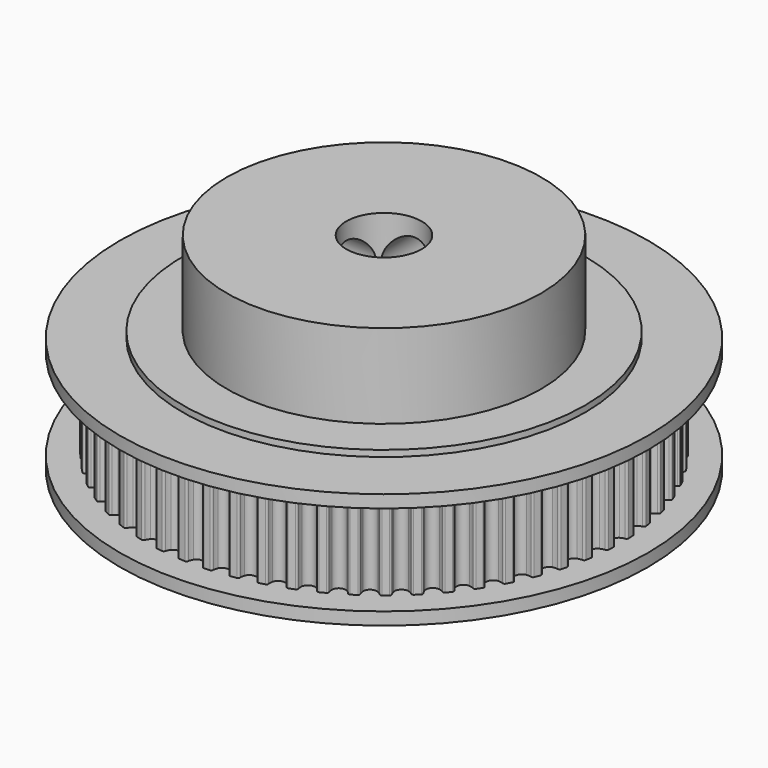
from build123d import *

# Parameters (mm, degrees)
PAD_DEPTH         = 7.2
SKETCHBASE_R      = 21
PADBASE_DEPTH     = 1
SKETCHTOP_R       = 21
PADTOP_DEPTH      = 1
SKETCH_R          = 16
PAD001_DEPTH      = 0.5
SKETCH001_R       = 12.5
PAD002_DEPTH      = 7.2
SKETCH002_R       = 16
PAD003_DEPTH      = 0.5
SKETCH003_R       = 3
POCKET_DEPTH      = 1.501
POCKET_DEPTH_BACK = 15.401
SKETCH004_R       = 2
POCKET001_DEPTH   = 21.001
SKETCH005_R       = 2
POCKET002_DEPTH   = 21.001


with BuildPart() as part:
    # SketchGear → Pad (new body)
    with BuildSketch(Plane.XY):
        with BuildLine():
            ThreePointArc((18.844593, -0.75), (18.800659, -0.643934), (18.694593, -0.6))
            ThreePointArc((18.694593, -0.6), (18.515304, -0.544218), (18.344593, -0.466025))
            ThreePointArc((18.344593, -0.466025), (18.094593, 0), (18.344593, 0.466025))
            ThreePointArc((18.344593, 0.466025), (18.515304, 0.544218), (18.694593, 0.6))
            ThreePointArc((18.694593, 0.6), (18.800659, 0.643934), (18.844593, 0.75))
            Line((18.844593, 0.75), (18.819757, 1.223905))
            ThreePointArc((18.819757, 1.223905), (18.764977, 1.324798), (18.654899, 1.357404))
            ThreePointArc((18.654899, 1.357404), (18.470762, 1.39414), (18.292812, 1.45406))
            ThreePointArc((18.292812, 1.45406), (17.995469, 1.8914), (18.195387, 2.381005))
            ThreePointArc((18.195387, 2.381005), (18.356989, 2.476613), (18.529465, 2.55083))
            ThreePointArc((18.529465, 2.55083), (18.630358, 2.60561), (18.662964, 2.715688))
            Line((18.662964, 2.715688), (18.588727, 3.184401))
            ThreePointArc((18.588727, 3.184401), (18.523701, 3.279014), (18.410818, 3.299936))
            ThreePointArc((18.410818, 3.299936), (18.22385, 3.317223), (18.040612, 3.358214))
            ThreePointArc((18.040612, 3.358214), (17.699183, 3.762077), (17.846828, 4.269897))
            ThreePointArc((17.846828, 4.269897), (17.997551, 4.381873), (18.161324, 4.473713))
            ThreePointArc((18.161324, 4.473713), (18.255938, 4.538739), (18.27686, 4.651622))
            Line((18.27686, 4.651622), (18.154036, 5.110007))
            ThreePointArc((18.154036, 5.110007), (18.079476, 5.197306), (17.965025, 5.206313))
            ThreePointArc((17.965025, 5.206313), (17.777273, 5.203962), (17.590755, 5.225575))
            ThreePointArc((17.590755, 5.225575), (17.208981, 5.591537), (17.302735, 6.112008))
            ThreePointArc((17.302735, 6.112008), (17.440928, 6.239125), (17.594204, 6.347581))
            ThreePointArc((17.594204, 6.347581), (17.681503, 6.422141), (17.69051, 6.536592))
            Line((17.69051, 6.536592), (17.520445, 6.979627))
            ThreePointArc((17.520445, 6.979627), (17.437168, 7.058654), (17.322403, 7.055649))
            ThreePointArc((17.322403, 7.055649), (17.135925, 7.033685), (16.948169, 7.035683))
            ThreePointArc((16.948169, 7.035683), (16.530233, 7.359734), (16.56907, 7.887154))
            ThreePointArc((16.56907, 7.887154), (16.693219, 8.02802), (16.834319, 8.151903))
            ThreePointArc((16.834319, 8.151903), (16.913345, 8.23518), (16.91034, 8.349946))
            Line((16.91034, 8.349946), (16.694896, 8.772778))
            ThreePointArc((16.694896, 8.772778), (16.603815, 8.842666), (16.489993, 8.827681))
            ThreePointArc((16.489993, 8.827681), (16.306833, 8.786346), (16.119896, 8.768707))
            ThreePointArc((16.119896, 8.768707), (15.670377, 9.047297), (15.653871, 9.575886))
            ThreePointArc((15.653871, 9.575886), (15.762615, 9.728958), (15.889993, 9.866912))
            ThreePointArc((15.889993, 9.866912), (15.959881, 9.957993), (15.944896, 10.071816))
            Line((15.944896, 10.071816), (15.686435, 10.469811))
            ThreePointArc((15.686435, 10.469811), (15.588548, 10.529797), (15.476915, 10.502996))
            ThreePointArc((15.476915, 10.502996), (15.299079, 10.442741), (15.11501, 10.405659))
            ThreePointArc((15.11501, 10.405659), (14.638833, 10.635735), (14.567165, 11.159704))
            ThreePointArc((14.567165, 11.159704), (14.659313, 11.323304), (14.771572, 11.473816))
            ThreePointArc((14.771572, 11.473816), (14.831558, 11.571704), (14.804757, 11.683337))
            Line((14.804757, 11.683337), (14.50611, 12.052135))
            ThreePointArc((14.50611, 12.052135), (14.402489, 12.10156), (14.294269, 12.063238))
            ThreePointArc((14.294269, 12.063238), (14.123705, 11.984724), (13.944521, 11.928604))
            ThreePointArc((13.944521, 11.928604), (13.446903, 12.107646), (13.320858, 12.621253))
            ThreePointArc((13.320858, 12.621253), (13.3954, 12.793589), (13.491312, 12.955011))
            ThreePointArc((13.491312, 12.955011), (13.540737, 13.058633), (13.502414, 13.166853))
            Line((13.502414, 13.166853), (13.166853, 13.502414))
            ThreePointArc((13.166853, 13.502414), (13.058633, 13.540737), (12.955011, 13.491312))
            ThreePointArc((12.955011, 13.491312), (12.793589, 13.3954), (12.621253, 13.320858))
            ThreePointArc((12.621253, 13.320858), (12.107646, 13.446903), (11.928604, 13.944521))
            ThreePointArc((11.928604, 13.944521), (11.984724, 14.123705), (12.063238, 14.294269))
            ThreePointArc((12.063238, 14.294269), (12.10156, 14.402489), (12.052135, 14.50611))
            Line((12.052135, 14.50611), (11.683337, 14.804757))
            ThreePointArc((11.683337, 14.804757), (11.571704, 14.831558), (11.473816, 14.771572))
            ThreePointArc((11.473816, 14.771572), (11.323304, 14.659313), (11.159704, 14.567165))
            ThreePointArc((11.159704, 14.567165), (10.635735, 14.638833), (10.405659, 15.11501))
            ThreePointArc((10.405659, 15.11501), (10.442741, 15.299079), (10.502996, 15.476915))
            ThreePointArc((10.502996, 15.476915), (10.529797, 15.588548), (10.469811, 15.686435))
            Line((10.469811, 15.686435), (10.071816, 15.944896))
            ThreePointArc((10.071816, 15.944896), (9.957993, 15.959881), (9.866912, 15.889993))
            ThreePointArc((9.866912, 15.889993), (9.728958, 15.762615), (9.575886, 15.653871))
            ThreePointArc((9.575886, 15.653871), (9.047297, 15.670377), (8.768707, 16.119896))
            ThreePointArc((8.768707, 16.119896), (8.786346, 16.306833), (8.827681, 16.489993))
            ThreePointArc((8.827681, 16.489993), (8.842666, 16.603815), (8.772778, 16.694896))
            Line((8.772778, 16.694896), (8.349946, 16.91034))
            ThreePointArc((8.349946, 16.91034), (8.23518, 16.913345), (8.151903, 16.834319))
            ThreePointArc((8.151903, 16.834319), (8.02802, 16.693219), (7.887154, 16.56907))
            ThreePointArc((7.887154, 16.56907), (7.359734, 16.530233), (7.035683, 16.948169))
            ThreePointArc((7.035683, 16.948169), (7.033685, 17.135925), (7.055649, 17.322403))
            ThreePointArc((7.055649, 17.322403), (7.058654, 17.437168), (6.979627, 17.520445))
            Line((6.979627, 17.520445), (6.536592, 17.69051))
            ThreePointArc((6.536592, 17.69051), (6.422141, 17.681503), (6.347581, 17.594204))
            ThreePointArc((6.347581, 17.594204), (6.239125, 17.440928), (6.112008, 17.302735))
            ThreePointArc((6.112008, 17.302735), (5.591537, 17.208981), (5.225575, 17.590755))
            ThreePointArc((5.225575, 17.590755), (5.203962, 17.777273), (5.206313, 17.965025))
            ThreePointArc((5.206313, 17.965025), (5.197306, 18.079476), (5.110007, 18.154036))
            Line((5.110007, 18.154036), (4.651622, 18.27686))
            ThreePointArc((4.651622, 18.27686), (4.538739, 18.255938), (4.473713, 18.161324))
            ThreePointArc((4.473713, 18.161324), (4.381873, 17.997551), (4.269897, 17.846828))
            ThreePointArc((4.269897, 17.846828), (3.762077, 17.699183), (3.358214, 18.040612))
            ThreePointArc((3.358214, 18.040612), (3.317223, 18.22385), (3.299936, 18.410818))
            ThreePointArc((3.299936, 18.410818), (3.279014, 18.523701), (3.184401, 18.588727))
            Line((3.184401, 18.588727), (2.715688, 18.662964))
            ThreePointArc((2.715688, 18.662964), (2.60561, 18.630358), (2.55083, 18.529465))
            ThreePointArc((2.55083, 18.529465), (2.476613, 18.356989), (2.381005, 18.195387))
            ThreePointArc((2.381005, 18.195387), (1.8914, 17.995469), (1.45406, 18.292812))
            ThreePointArc((1.45406, 18.292812), (1.39414, 18.470762), (1.357404, 18.654899))
            ThreePointArc((1.357404, 18.654899), (1.324798, 18.764977), (1.223905, 18.819757))
            Line((1.223905, 18.819757), (0.75, 18.844593))
            ThreePointArc((0.75, 18.844593), (0.643934, 18.800659), (0.6, 18.694593))
            ThreePointArc((0.6, 18.694593), (0.544218, 18.515304), (0.466025, 18.344593))
            ThreePointArc((0.466025, 18.344593), (0, 18.094593), (-0.466025, 18.344593))
            ThreePointArc((-0.466025, 18.344593), (-0.544218, 18.515304), (-0.6, 18.694593))
            ThreePointArc((-0.6, 18.694593), (-0.643934, 18.800659), (-0.75, 18.844593))
            Line((-0.75, 18.844593), (-1.223905, 18.819757))
            ThreePointArc((-1.223905, 18.819757), (-1.324798, 18.764977), (-1.357404, 18.654899))
            ThreePointArc((-1.357404, 18.654899), (-1.39414, 18.470762), (-1.45406, 18.292812))
            ThreePointArc((-1.45406, 18.292812), (-1.8914, 17.995469), (-2.381005, 18.195387))
            ThreePointArc((-2.381005, 18.195387), (-2.476613, 18.356989), (-2.55083, 18.529465))
            ThreePointArc((-2.55083, 18.529465), (-2.60561, 18.630358), (-2.715688, 18.662964))
            Line((-2.715688, 18.662964), (-3.184401, 18.588727))
            ThreePointArc((-3.184401, 18.588727), (-3.279014, 18.523701), (-3.299936, 18.410818))
            ThreePointArc((-3.299936, 18.410818), (-3.317223, 18.22385), (-3.358214, 18.040612))
            ThreePointArc((-3.358214, 18.040612), (-3.762077, 17.699183), (-4.269897, 17.846828))
            ThreePointArc((-4.269897, 17.846828), (-4.381873, 17.997551), (-4.473713, 18.161324))
            ThreePointArc((-4.473713, 18.161324), (-4.538739, 18.255938), (-4.651622, 18.27686))
            Line((-4.651622, 18.27686), (-5.110007, 18.154036))
            ThreePointArc((-5.110007, 18.154036), (-5.197306, 18.079476), (-5.206313, 17.965025))
            ThreePointArc((-5.206313, 17.965025), (-5.203962, 17.777273), (-5.225575, 17.590755))
            ThreePointArc((-5.225575, 17.590755), (-5.591537, 17.208981), (-6.112008, 17.302735))
            ThreePointArc((-6.112008, 17.302735), (-6.239125, 17.440928), (-6.347581, 17.594204))
            ThreePointArc((-6.347581, 17.594204), (-6.422141, 17.681503), (-6.536592, 17.69051))
            Line((-6.536592, 17.69051), (-6.979627, 17.520445))
            ThreePointArc((-6.979627, 17.520445), (-7.058654, 17.437168), (-7.055649, 17.322403))
            ThreePointArc((-7.055649, 17.322403), (-7.033685, 17.135925), (-7.035683, 16.948169))
            ThreePointArc((-7.035683, 16.948169), (-7.359734, 16.530233), (-7.887154, 16.56907))
            ThreePointArc((-7.887154, 16.56907), (-8.02802, 16.693219), (-8.151903, 16.834319))
            ThreePointArc((-8.151903, 16.834319), (-8.23518, 16.913345), (-8.349946, 16.91034))
            Line((-8.349946, 16.91034), (-8.772778, 16.694896))
            ThreePointArc((-8.772778, 16.694896), (-8.842666, 16.603815), (-8.827681, 16.489993))
            ThreePointArc((-8.827681, 16.489993), (-8.786346, 16.306833), (-8.768707, 16.119896))
            ThreePointArc((-8.768707, 16.119896), (-9.047297, 15.670377), (-9.575886, 15.653871))
            ThreePointArc((-9.575886, 15.653871), (-9.728958, 15.762615), (-9.866912, 15.889993))
            ThreePointArc((-9.866912, 15.889993), (-9.957993, 15.959881), (-10.071816, 15.944896))
            Line((-10.071816, 15.944896), (-10.469811, 15.686435))
            ThreePointArc((-10.469811, 15.686435), (-10.529797, 15.588548), (-10.502996, 15.476915))
            ThreePointArc((-10.502996, 15.476915), (-10.442741, 15.299079), (-10.405659, 15.11501))
            ThreePointArc((-10.405659, 15.11501), (-10.635735, 14.638833), (-11.159704, 14.567165))
            ThreePointArc((-11.159704, 14.567165), (-11.323304, 14.659313), (-11.473816, 14.771572))
            ThreePointArc((-11.473816, 14.771572), (-11.571704, 14.831558), (-11.683337, 14.804757))
            Line((-11.683337, 14.804757), (-12.052135, 14.50611))
            ThreePointArc((-12.052135, 14.50611), (-12.10156, 14.402489), (-12.063238, 14.294269))
            ThreePointArc((-12.063238, 14.294269), (-11.984724, 14.123705), (-11.928604, 13.944521))
            ThreePointArc((-11.928604, 13.944521), (-12.107646, 13.446903), (-12.621253, 13.320858))
            ThreePointArc((-12.621253, 13.320858), (-12.793589, 13.3954), (-12.955011, 13.491312))
            ThreePointArc((-12.955011, 13.491312), (-13.058633, 13.540737), (-13.166853, 13.502414))
            Line((-13.166853, 13.502414), (-13.502414, 13.166853))
            ThreePointArc((-13.502414, 13.166853), (-13.540737, 13.058633), (-13.491312, 12.955011))
            ThreePointArc((-13.491312, 12.955011), (-13.3954, 12.793589), (-13.320858, 12.621253))
            ThreePointArc((-13.320858, 12.621253), (-13.446903, 12.107646), (-13.944521, 11.928604))
            ThreePointArc((-13.944521, 11.928604), (-14.123705, 11.984724), (-14.294269, 12.063238))
            ThreePointArc((-14.294269, 12.063238), (-14.402489, 12.10156), (-14.50611, 12.052135))
            Line((-14.50611, 12.052135), (-14.804757, 11.683337))
            ThreePointArc((-14.804757, 11.683337), (-14.831558, 11.571704), (-14.771572, 11.473816))
            ThreePointArc((-14.771572, 11.473816), (-14.659313, 11.323304), (-14.567165, 11.159704))
            ThreePointArc((-14.567165, 11.159704), (-14.638833, 10.635735), (-15.11501, 10.405659))
            ThreePointArc((-15.11501, 10.405659), (-15.299079, 10.442741), (-15.476915, 10.502996))
            ThreePointArc((-15.476915, 10.502996), (-15.588548, 10.529797), (-15.686435, 10.469811))
            Line((-15.686435, 10.469811), (-15.944896, 10.071816))
            ThreePointArc((-15.944896, 10.071816), (-15.959881, 9.957993), (-15.889993, 9.866912))
            ThreePointArc((-15.889993, 9.866912), (-15.762615, 9.728958), (-15.653871, 9.575886))
            ThreePointArc((-15.653871, 9.575886), (-15.670377, 9.047297), (-16.119896, 8.768707))
            ThreePointArc((-16.119896, 8.768707), (-16.306833, 8.786346), (-16.489993, 8.827681))
            ThreePointArc((-16.489993, 8.827681), (-16.603815, 8.842666), (-16.694896, 8.772778))
            Line((-16.694896, 8.772778), (-16.91034, 8.349946))
            ThreePointArc((-16.91034, 8.349946), (-16.913345, 8.23518), (-16.834319, 8.151903))
            ThreePointArc((-16.834319, 8.151903), (-16.693219, 8.02802), (-16.56907, 7.887154))
            ThreePointArc((-16.56907, 7.887154), (-16.530233, 7.359734), (-16.948169, 7.035683))
            ThreePointArc((-16.948169, 7.035683), (-17.135925, 7.033685), (-17.322403, 7.055649))
            ThreePointArc((-17.322403, 7.055649), (-17.437168, 7.058654), (-17.520445, 6.979627))
            Line((-17.520445, 6.979627), (-17.69051, 6.536592))
            ThreePointArc((-17.69051, 6.536592), (-17.681503, 6.422141), (-17.594204, 6.347581))
            ThreePointArc((-17.594204, 6.347581), (-17.440928, 6.239125), (-17.302735, 6.112008))
            ThreePointArc((-17.302735, 6.112008), (-17.208981, 5.591537), (-17.590755, 5.225575))
            ThreePointArc((-17.590755, 5.225575), (-17.777273, 5.203962), (-17.965025, 5.206313))
            ThreePointArc((-17.965025, 5.206313), (-18.079476, 5.197306), (-18.154036, 5.110007))
            Line((-18.154036, 5.110007), (-18.27686, 4.651622))
            ThreePointArc((-18.27686, 4.651622), (-18.255938, 4.538739), (-18.161324, 4.473713))
            ThreePointArc((-18.161324, 4.473713), (-17.997551, 4.381873), (-17.846828, 4.269897))
            ThreePointArc((-17.846828, 4.269897), (-17.699183, 3.762077), (-18.040612, 3.358214))
            ThreePointArc((-18.040612, 3.358214), (-18.22385, 3.317223), (-18.410818, 3.299936))
            ThreePointArc((-18.410818, 3.299936), (-18.523701, 3.279014), (-18.588727, 3.184401))
            Line((-18.588727, 3.184401), (-18.662964, 2.715688))
            ThreePointArc((-18.662964, 2.715688), (-18.630358, 2.60561), (-18.529465, 2.55083))
            ThreePointArc((-18.529465, 2.55083), (-18.356989, 2.476613), (-18.195387, 2.381005))
            ThreePointArc((-18.195387, 2.381005), (-17.995469, 1.8914), (-18.292812, 1.45406))
            ThreePointArc((-18.292812, 1.45406), (-18.470762, 1.39414), (-18.654899, 1.357404))
            ThreePointArc((-18.654899, 1.357404), (-18.764977, 1.324798), (-18.819757, 1.223905))
            Line((-18.819757, 1.223905), (-18.844593, 0.75))
            ThreePointArc((-18.844593, 0.75), (-18.800659, 0.643934), (-18.694593, 0.6))
            ThreePointArc((-18.694593, 0.6), (-18.515304, 0.544218), (-18.344593, 0.466025))
            ThreePointArc((-18.344593, 0.466025), (-18.094593, 0), (-18.344593, -0.466025))
            ThreePointArc((-18.344593, -0.466025), (-18.515304, -0.544218), (-18.694593, -0.6))
            ThreePointArc((-18.694593, -0.6), (-18.800659, -0.643934), (-18.844593, -0.75))
            Line((-18.844593, -0.75), (-18.819757, -1.223905))
            ThreePointArc((-18.819757, -1.223905), (-18.764977, -1.324798), (-18.654899, -1.357404))
            ThreePointArc((-18.654899, -1.357404), (-18.470762, -1.39414), (-18.292812, -1.45406))
            ThreePointArc((-18.292812, -1.45406), (-17.995469, -1.8914), (-18.195387, -2.381005))
            ThreePointArc((-18.195387, -2.381005), (-18.356989, -2.476613), (-18.529465, -2.55083))
            ThreePointArc((-18.529465, -2.55083), (-18.630358, -2.60561), (-18.662964, -2.715688))
            Line((-18.662964, -2.715688), (-18.588727, -3.184401))
            ThreePointArc((-18.588727, -3.184401), (-18.523701, -3.279014), (-18.410818, -3.299936))
            ThreePointArc((-18.410818, -3.299936), (-18.22385, -3.317223), (-18.040612, -3.358214))
            ThreePointArc((-18.040612, -3.358214), (-17.699183, -3.762077), (-17.846828, -4.269897))
            ThreePointArc((-17.846828, -4.269897), (-17.997551, -4.381873), (-18.161324, -4.473713))
            ThreePointArc((-18.161324, -4.473713), (-18.255938, -4.538739), (-18.27686, -4.651622))
            Line((-18.27686, -4.651622), (-18.154036, -5.110007))
            ThreePointArc((-18.154036, -5.110007), (-18.079476, -5.197306), (-17.965025, -5.206313))
            ThreePointArc((-17.965025, -5.206313), (-17.777273, -5.203962), (-17.590755, -5.225575))
            ThreePointArc((-17.590755, -5.225575), (-17.208981, -5.591537), (-17.302735, -6.112008))
            ThreePointArc((-17.302735, -6.112008), (-17.440928, -6.239125), (-17.594204, -6.347581))
            ThreePointArc((-17.594204, -6.347581), (-17.681503, -6.422141), (-17.69051, -6.536592))
            Line((-17.69051, -6.536592), (-17.520445, -6.979627))
            ThreePointArc((-17.520445, -6.979627), (-17.437168, -7.058654), (-17.322403, -7.055649))
            ThreePointArc((-17.322403, -7.055649), (-17.135925, -7.033685), (-16.948169, -7.035683))
            ThreePointArc((-16.948169, -7.035683), (-16.530233, -7.359734), (-16.56907, -7.887154))
            ThreePointArc((-16.56907, -7.887154), (-16.693219, -8.02802), (-16.834319, -8.151903))
            ThreePointArc((-16.834319, -8.151903), (-16.913345, -8.23518), (-16.91034, -8.349946))
            Line((-16.91034, -8.349946), (-16.694896, -8.772778))
            ThreePointArc((-16.694896, -8.772778), (-16.603815, -8.842666), (-16.489993, -8.827681))
            ThreePointArc((-16.489993, -8.827681), (-16.306833, -8.786346), (-16.119896, -8.768707))
            ThreePointArc((-16.119896, -8.768707), (-15.670377, -9.047297), (-15.653871, -9.575886))
            ThreePointArc((-15.653871, -9.575886), (-15.762615, -9.728958), (-15.889993, -9.866912))
            ThreePointArc((-15.889993, -9.866912), (-15.959881, -9.957993), (-15.944896, -10.071816))
            Line((-15.944896, -10.071816), (-15.686435, -10.469811))
            ThreePointArc((-15.686435, -10.469811), (-15.588548, -10.529797), (-15.476915, -10.502996))
            ThreePointArc((-15.476915, -10.502996), (-15.299079, -10.442741), (-15.11501, -10.405659))
            ThreePointArc((-15.11501, -10.405659), (-14.638833, -10.635735), (-14.567165, -11.159704))
            ThreePointArc((-14.567165, -11.159704), (-14.659313, -11.323304), (-14.771572, -11.473816))
            ThreePointArc((-14.771572, -11.473816), (-14.831558, -11.571704), (-14.804757, -11.683337))
            Line((-14.804757, -11.683337), (-14.50611, -12.052135))
            ThreePointArc((-14.50611, -12.052135), (-14.402489, -12.10156), (-14.294269, -12.063238))
            ThreePointArc((-14.294269, -12.063238), (-14.123705, -11.984724), (-13.944521, -11.928604))
            ThreePointArc((-13.944521, -11.928604), (-13.446903, -12.107646), (-13.320858, -12.621253))
            ThreePointArc((-13.320858, -12.621253), (-13.3954, -12.793589), (-13.491312, -12.955011))
            ThreePointArc((-13.491312, -12.955011), (-13.540737, -13.058633), (-13.502414, -13.166853))
            Line((-13.502414, -13.166853), (-13.166853, -13.502414))
            ThreePointArc((-13.166853, -13.502414), (-13.058633, -13.540737), (-12.955011, -13.491312))
            ThreePointArc((-12.955011, -13.491312), (-12.793589, -13.3954), (-12.621253, -13.320858))
            ThreePointArc((-12.621253, -13.320858), (-12.107646, -13.446903), (-11.928604, -13.944521))
            ThreePointArc((-11.928604, -13.944521), (-11.984724, -14.123705), (-12.063238, -14.294269))
            ThreePointArc((-12.063238, -14.294269), (-12.10156, -14.402489), (-12.052135, -14.50611))
            Line((-12.052135, -14.50611), (-11.683337, -14.804757))
            ThreePointArc((-11.683337, -14.804757), (-11.571704, -14.831558), (-11.473816, -14.771572))
            ThreePointArc((-11.473816, -14.771572), (-11.323304, -14.659313), (-11.159704, -14.567165))
            ThreePointArc((-11.159704, -14.567165), (-10.635735, -14.638833), (-10.405659, -15.11501))
            ThreePointArc((-10.405659, -15.11501), (-10.442741, -15.299079), (-10.502996, -15.476915))
            ThreePointArc((-10.502996, -15.476915), (-10.529797, -15.588548), (-10.469811, -15.686435))
            Line((-10.469811, -15.686435), (-10.071816, -15.944896))
            ThreePointArc((-10.071816, -15.944896), (-9.957993, -15.959881), (-9.866912, -15.889993))
            ThreePointArc((-9.866912, -15.889993), (-9.728958, -15.762615), (-9.575886, -15.653871))
            ThreePointArc((-9.575886, -15.653871), (-9.047297, -15.670377), (-8.768707, -16.119896))
            ThreePointArc((-8.768707, -16.119896), (-8.786346, -16.306833), (-8.827681, -16.489993))
            ThreePointArc((-8.827681, -16.489993), (-8.842666, -16.603815), (-8.772778, -16.694896))
            Line((-8.772778, -16.694896), (-8.349946, -16.91034))
            ThreePointArc((-8.349946, -16.91034), (-8.23518, -16.913345), (-8.151903, -16.834319))
            ThreePointArc((-8.151903, -16.834319), (-8.02802, -16.693219), (-7.887154, -16.56907))
            ThreePointArc((-7.887154, -16.56907), (-7.359734, -16.530233), (-7.035683, -16.948169))
            ThreePointArc((-7.035683, -16.948169), (-7.033685, -17.135925), (-7.055649, -17.322403))
            ThreePointArc((-7.055649, -17.322403), (-7.058654, -17.437168), (-6.979627, -17.520445))
            Line((-6.979627, -17.520445), (-6.536592, -17.69051))
            ThreePointArc((-6.536592, -17.69051), (-6.422141, -17.681503), (-6.347581, -17.594204))
            ThreePointArc((-6.347581, -17.594204), (-6.239125, -17.440928), (-6.112008, -17.302735))
            ThreePointArc((-6.112008, -17.302735), (-5.591537, -17.208981), (-5.225575, -17.590755))
            ThreePointArc((-5.225575, -17.590755), (-5.203962, -17.777273), (-5.206313, -17.965025))
            ThreePointArc((-5.206313, -17.965025), (-5.197306, -18.079476), (-5.110007, -18.154036))
            Line((-5.110007, -18.154036), (-4.651622, -18.27686))
            ThreePointArc((-4.651622, -18.27686), (-4.538739, -18.255938), (-4.473713, -18.161324))
            ThreePointArc((-4.473713, -18.161324), (-4.381873, -17.997551), (-4.269897, -17.846828))
            ThreePointArc((-4.269897, -17.846828), (-3.762077, -17.699183), (-3.358214, -18.040612))
            ThreePointArc((-3.358214, -18.040612), (-3.317223, -18.22385), (-3.299936, -18.410818))
            ThreePointArc((-3.299936, -18.410818), (-3.279014, -18.523701), (-3.184401, -18.588727))
            Line((-3.184401, -18.588727), (-2.715688, -18.662964))
            ThreePointArc((-2.715688, -18.662964), (-2.60561, -18.630358), (-2.55083, -18.529465))
            ThreePointArc((-2.55083, -18.529465), (-2.476613, -18.356989), (-2.381005, -18.195387))
            ThreePointArc((-2.381005, -18.195387), (-1.8914, -17.995469), (-1.45406, -18.292812))
            ThreePointArc((-1.45406, -18.292812), (-1.39414, -18.470762), (-1.357404, -18.654899))
            ThreePointArc((-1.357404, -18.654899), (-1.324798, -18.764977), (-1.223905, -18.819757))
            Line((-1.223905, -18.819757), (-0.75, -18.844593))
            ThreePointArc((-0.75, -18.844593), (-0.643934, -18.800659), (-0.6, -18.694593))
            ThreePointArc((-0.6, -18.694593), (-0.544218, -18.515304), (-0.466025, -18.344593))
            ThreePointArc((-0.466025, -18.344593), (0, -18.094593), (0.466025, -18.344593))
            ThreePointArc((0.466025, -18.344593), (0.544218, -18.515304), (0.6, -18.694593))
            ThreePointArc((0.6, -18.694593), (0.643934, -18.800659), (0.75, -18.844593))
            Line((0.75, -18.844593), (1.223905, -18.819757))
            ThreePointArc((1.223905, -18.819757), (1.324798, -18.764977), (1.357404, -18.654899))
            ThreePointArc((1.357404, -18.654899), (1.39414, -18.470762), (1.45406, -18.292812))
            ThreePointArc((1.45406, -18.292812), (1.8914, -17.995469), (2.381005, -18.195387))
            ThreePointArc((2.381005, -18.195387), (2.476613, -18.356989), (2.55083, -18.529465))
            ThreePointArc((2.55083, -18.529465), (2.60561, -18.630358), (2.715688, -18.662964))
            Line((2.715688, -18.662964), (3.184401, -18.588727))
            ThreePointArc((3.184401, -18.588727), (3.279014, -18.523701), (3.299936, -18.410818))
            ThreePointArc((3.299936, -18.410818), (3.317223, -18.22385), (3.358214, -18.040612))
            ThreePointArc((3.358214, -18.040612), (3.762077, -17.699183), (4.269897, -17.846828))
            ThreePointArc((4.269897, -17.846828), (4.381873, -17.997551), (4.473713, -18.161324))
            ThreePointArc((4.473713, -18.161324), (4.538739, -18.255938), (4.651622, -18.27686))
            Line((4.651622, -18.27686), (5.110007, -18.154036))
            ThreePointArc((5.110007, -18.154036), (5.197306, -18.079476), (5.206313, -17.965025))
            ThreePointArc((5.206313, -17.965025), (5.203962, -17.777273), (5.225575, -17.590755))
            ThreePointArc((5.225575, -17.590755), (5.591537, -17.208981), (6.112008, -17.302735))
            ThreePointArc((6.112008, -17.302735), (6.239125, -17.440928), (6.347581, -17.594204))
            ThreePointArc((6.347581, -17.594204), (6.422141, -17.681503), (6.536592, -17.69051))
            Line((6.536592, -17.69051), (6.979627, -17.520445))
            ThreePointArc((6.979627, -17.520445), (7.058654, -17.437168), (7.055649, -17.322403))
            ThreePointArc((7.055649, -17.322403), (7.033685, -17.135925), (7.035683, -16.948169))
            ThreePointArc((7.035683, -16.948169), (7.359734, -16.530233), (7.887154, -16.56907))
            ThreePointArc((7.887154, -16.56907), (8.02802, -16.693219), (8.151903, -16.834319))
            ThreePointArc((8.151903, -16.834319), (8.23518, -16.913345), (8.349946, -16.91034))
            Line((8.349946, -16.91034), (8.772778, -16.694896))
            ThreePointArc((8.772778, -16.694896), (8.842666, -16.603815), (8.827681, -16.489993))
            ThreePointArc((8.827681, -16.489993), (8.786346, -16.306833), (8.768707, -16.119896))
            ThreePointArc((8.768707, -16.119896), (9.047297, -15.670377), (9.575886, -15.653871))
            ThreePointArc((9.575886, -15.653871), (9.728958, -15.762615), (9.866912, -15.889993))
            ThreePointArc((9.866912, -15.889993), (9.957993, -15.959881), (10.071816, -15.944896))
            Line((10.071816, -15.944896), (10.469811, -15.686435))
            ThreePointArc((10.469811, -15.686435), (10.529797, -15.588548), (10.502996, -15.476915))
            ThreePointArc((10.502996, -15.476915), (10.442741, -15.299079), (10.405659, -15.11501))
            ThreePointArc((10.405659, -15.11501), (10.635735, -14.638833), (11.159704, -14.567165))
            ThreePointArc((11.159704, -14.567165), (11.323304, -14.659313), (11.473816, -14.771572))
            ThreePointArc((11.473816, -14.771572), (11.571704, -14.831558), (11.683337, -14.804757))
            Line((11.683337, -14.804757), (12.052135, -14.50611))
            ThreePointArc((12.052135, -14.50611), (12.10156, -14.402489), (12.063238, -14.294269))
            ThreePointArc((12.063238, -14.294269), (11.984724, -14.123705), (11.928604, -13.944521))
            ThreePointArc((11.928604, -13.944521), (12.107646, -13.446903), (12.621253, -13.320858))
            ThreePointArc((12.621253, -13.320858), (12.793589, -13.3954), (12.955011, -13.491312))
            ThreePointArc((12.955011, -13.491312), (13.058633, -13.540737), (13.166853, -13.502414))
            Line((13.166853, -13.502414), (13.502414, -13.166853))
            ThreePointArc((13.502414, -13.166853), (13.540737, -13.058633), (13.491312, -12.955011))
            ThreePointArc((13.491312, -12.955011), (13.3954, -12.793589), (13.320858, -12.621253))
            ThreePointArc((13.320858, -12.621253), (13.446903, -12.107646), (13.944521, -11.928604))
            ThreePointArc((13.944521, -11.928604), (14.123705, -11.984724), (14.294269, -12.063238))
            ThreePointArc((14.294269, -12.063238), (14.402489, -12.10156), (14.50611, -12.052135))
            Line((14.50611, -12.052135), (14.804757, -11.683337))
            ThreePointArc((14.804757, -11.683337), (14.831558, -11.571704), (14.771572, -11.473816))
            ThreePointArc((14.771572, -11.473816), (14.659313, -11.323304), (14.567165, -11.159704))
            ThreePointArc((14.567165, -11.159704), (14.638833, -10.635735), (15.11501, -10.405659))
            ThreePointArc((15.11501, -10.405659), (15.299079, -10.442741), (15.476915, -10.502996))
            ThreePointArc((15.476915, -10.502996), (15.588548, -10.529797), (15.686435, -10.469811))
            Line((15.686435, -10.469811), (15.944896, -10.071816))
            ThreePointArc((15.944896, -10.071816), (15.959881, -9.957993), (15.889993, -9.866912))
            ThreePointArc((15.889993, -9.866912), (15.762615, -9.728958), (15.653871, -9.575886))
            ThreePointArc((15.653871, -9.575886), (15.670377, -9.047297), (16.119896, -8.768707))
            ThreePointArc((16.119896, -8.768707), (16.306833, -8.786346), (16.489993, -8.827681))
            ThreePointArc((16.489993, -8.827681), (16.603815, -8.842666), (16.694896, -8.772778))
            Line((16.694896, -8.772778), (16.91034, -8.349946))
            ThreePointArc((16.91034, -8.349946), (16.913345, -8.23518), (16.834319, -8.151903))
            ThreePointArc((16.834319, -8.151903), (16.693219, -8.02802), (16.56907, -7.887154))
            ThreePointArc((16.56907, -7.887154), (16.530233, -7.359734), (16.948169, -7.035683))
            ThreePointArc((16.948169, -7.035683), (17.135925, -7.033685), (17.322403, -7.055649))
            ThreePointArc((17.322403, -7.055649), (17.437168, -7.058654), (17.520445, -6.979627))
            Line((17.520445, -6.979627), (17.69051, -6.536592))
            ThreePointArc((17.69051, -6.536592), (17.681503, -6.422141), (17.594204, -6.347581))
            ThreePointArc((17.594204, -6.347581), (17.440928, -6.239125), (17.302735, -6.112008))
            ThreePointArc((17.302735, -6.112008), (17.208981, -5.591537), (17.590755, -5.225575))
            ThreePointArc((17.590755, -5.225575), (17.777273, -5.203962), (17.965025, -5.206313))
            ThreePointArc((17.965025, -5.206313), (18.079476, -5.197306), (18.154036, -5.110007))
            Line((18.154036, -5.110007), (18.27686, -4.651622))
            ThreePointArc((18.27686, -4.651622), (18.255938, -4.538739), (18.161324, -4.473713))
            ThreePointArc((18.161324, -4.473713), (17.997551, -4.381873), (17.846828, -4.269897))
            ThreePointArc((17.846828, -4.269897), (17.699183, -3.762077), (18.040612, -3.358214))
            ThreePointArc((18.040612, -3.358214), (18.22385, -3.317223), (18.410818, -3.299936))
            ThreePointArc((18.410818, -3.299936), (18.523701, -3.279014), (18.588727, -3.184401))
            Line((18.588727, -3.184401), (18.662964, -2.715688))
            ThreePointArc((18.662964, -2.715688), (18.630358, -2.60561), (18.529465, -2.55083))
            ThreePointArc((18.529465, -2.55083), (18.356989, -2.476613), (18.195387, -2.381005))
            ThreePointArc((18.195387, -2.381005), (17.995469, -1.8914), (18.292812, -1.45406))
            ThreePointArc((18.292812, -1.45406), (18.470762, -1.39414), (18.654899, -1.357404))
            ThreePointArc((18.654899, -1.357404), (18.764977, -1.324798), (18.819757, -1.223905))
            Line((18.819757, -1.223905), (18.844593, -0.75))
        make_face()
    extrude(amount=PAD_DEPTH)

    # SketchBase → PadBase (join)
    with BuildSketch(Plane.XY.offset(-1)):
        Circle(SKETCHBASE_R)
    extrude(amount=PADBASE_DEPTH)

    # SketchTop → PadTop (join)
    with BuildSketch(Plane.XY.offset(7.2)):
        Circle(SKETCHTOP_R)
    extrude(amount=PADTOP_DEPTH)

    # Sketch (on DatumPlane) → Pad001 (join)
    with BuildSketch(Plane.XY.offset(-1)):
        Circle(SKETCH_R)
    extrude(amount=-PAD001_DEPTH)

    # Sketch001 (on DatumPlane) → Pad002 (join)
    with BuildSketch(Plane.XY.offset(8.2)):
        Circle(SKETCH001_R)
    extrude(amount=PAD002_DEPTH)

    # Sketch002 (on DatumPlane) → Pad003 (join)
    with BuildSketch(Plane.XY.offset(8.2)):
        Circle(SKETCH002_R)
    extrude(amount=PAD003_DEPTH)

    # Sketch003 → Pocket (cut, two sides)
    with BuildSketch(Plane.XY) as pocket_sk:
        Circle(SKETCH003_R)
    extrude(amount=-POCKET_DEPTH, mode=Mode.SUBTRACT)
    extrude(pocket_sk.sketch, amount=POCKET_DEPTH_BACK, mode=Mode.SUBTRACT)

    # Sketch004 → Pocket001 (cut, through all)
    with BuildSketch(Plane.XZ):
        with Locations((0, 12.05)):
            Circle(SKETCH004_R)
    extrude(amount=-POCKET001_DEPTH, mode=Mode.SUBTRACT)

    # Sketch005 → Pocket002 (cut, through all)
    with BuildSketch(Plane.YZ):
        with Locations((0, 12.05)):
            Circle(SKETCH005_R)
    extrude(amount=-POCKET002_DEPTH, mode=Mode.SUBTRACT)


solid = part.part
